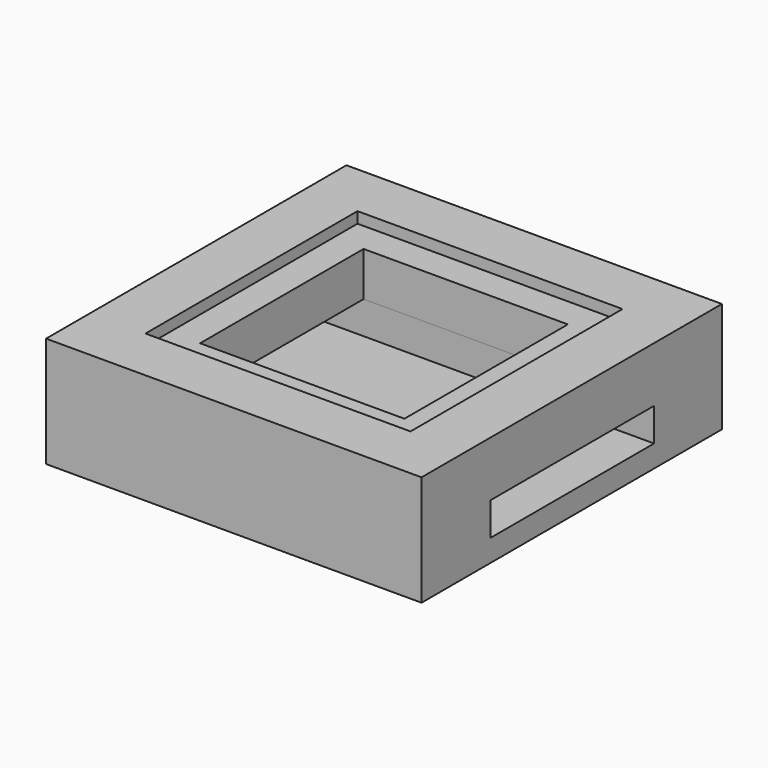
from build123d import *

# Parameters (mm, degrees)
F2_W     = 34
F2_H     = 34
F3_DEPTH = 10
F1_W     = 24
F1_H     = 24
F4_DEPTH = 1
F0_W     = 18.5
F0_H     = 18.5
F5_DEPTH = 8
F6_W     = 18.5
F6_H     = 3
F7_DEPTH = 34


with BuildPart() as f3:
    # F2 (on Top) → F3 (new body)
    with BuildSketch(Plane.XY):
        Rectangle(F2_W, F2_H)
    extrude(amount=-F3_DEPTH)

    # F1 (on Top) → F4 (cut)
    with BuildSketch(Plane.XY):
        Rectangle(F1_W, F1_H)
    extrude(amount=-F4_DEPTH, mode=Mode.SUBTRACT)

    # F0 (on Top) → F5 (cut)
    with BuildSketch(Plane.XY):
        Rectangle(F0_W, F0_H)
    extrude(amount=-F5_DEPTH, mode=Mode.SUBTRACT)

    # F6 (on face) → F7 (cut)
    with BuildSketch(Plane.YZ.offset(17)):
        with Locations((0.064, -6.5)):
            Rectangle(F6_W, F6_H)
    extrude(amount=-F7_DEPTH, mode=Mode.SUBTRACT)


solid = f3.part
